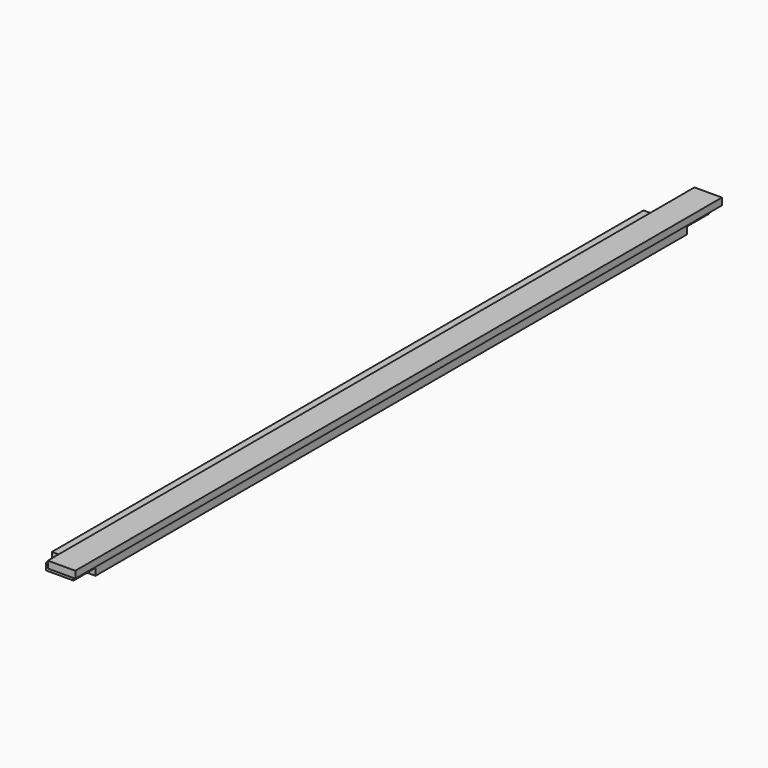
from build123d import *

# Parameters (mm, degrees)
F1_DEPTH = 1104
F2_W     = 193.684367
F2_H     = 94
F2_W_2   = 206.995809
F3_DEPTH = 19
F4_W     = 75
F4_H     = 19
F5_DEPTH = 19


with BuildPart() as f1:
    # F0 (on Front) → F1 (new body, symmetric)
    with BuildSketch(Plane.XZ):
        Polygon((0, -19), (0, 0), (-75, 0), (-75, -19), (-95, -19), (-95, -38), (-139, -38), (-139, -57), (-20, -57), (-20, -19), align=None)
    extrude(amount=F1_DEPTH, both=True)

    # F2 (on face) → F3 (cut)
    with BuildSketch(Plane(origin=(0, 0, -57), x_dir=(1, 0, 0), z_dir=(0, 0, -1))):
        with Locations((-42.157817, 1057)):
            Rectangle(F2_W, F2_H)
        with Locations((-35.502096, -1057)):
            Rectangle(F2_W_2, F2_H)
    extrude(amount=-F3_DEPTH, mode=Mode.SUBTRACT)

    # F4 (on face) → F5 (cut)
    with BuildSketch(Plane(origin=(0, 0, -38), x_dir=(1, 0, 0), z_dir=(0, 0, -1))):
        with Locations((-57.5, 1094.5)):
            Rectangle(F4_W, F4_H)
        with Locations((-57.5, -1094.5)):
            Rectangle(F4_W, F4_H)
    extrude(amount=-F5_DEPTH, mode=Mode.SUBTRACT)


solid = f1.part
